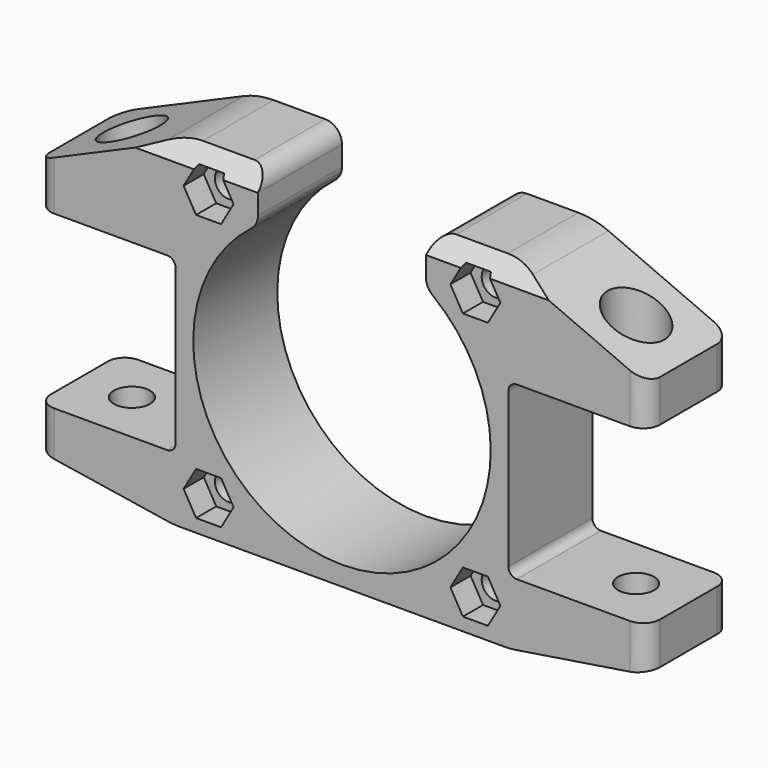
from build123d import *

# Parameters (mm, degrees)
PAD_DEPTH         = 25
SKETCH001_R       = 4.3
POCKET_DEPTH      = 100
POCKET_DEPTH_BACK = -100
SKETCH002_R       = 6.75
POCKET001_DEPTH   = 10.101
SKETCH003_R       = 6.75
POCKET002_DEPTH   = 19.101
SKETCH004_R       = 3.3
POCKET003_DEPTH   = 25.001
POCKET004_DEPTH   = 6
FILLET_R          = 4
FILLET001_R       = 2
FILLET002_R       = 18
FILLET003_R       = 4
POCKET005_DEPTH   = 145.001


with BuildPart() as part:
    # Sketch → Pad (new body)
    with BuildSketch(Plane.XZ):
        with BuildLine():
            Line((-72.5, 20.4), (-72.5, 30.4))
            Line((-72.5, 30.4), (-40, 44.5))
            Line((-40, 44.5), (-20, 44.5))
            Line((-20, 44.5), (-20, 33.708903))
            ThreePointArc((-20, 33.708903), (0, -30.9), (20, 33.708903))
            Line((20, 44.5), (20, 33.708903))
            Line((40, 44.5), (20, 44.5))
            Line((40, 44.5), (72.5, 30.4))
            Line((72.5, 30.4), (72.5, 20.4))
            Line((72.5, 20.4), (39.6, 20.4))
            Line((39.6, 20.4), (39.6, -20.4))
            Line((39.6, -20.4), (72.5, -20.4))
            Line((72.5, -20.4), (72.5, -30.4))
            Line((72.5, -30.4), (40, -35.5))
            Line((40, -35.5), (-40, -35.5))
            Line((-40, -35.5), (-72.5, -30.4))
            Line((-72.5, -30.4), (-72.5, -20.4))
            Line((-72.5, -20.4), (-39.6, -20.4))
            Line((-39.6, -20.4), (-39.6, 20.4))
            Line((-39.6, 20.4), (-72.5, 20.4))
        make_face()
    extrude(amount=PAD_DEPTH)

    # Sketch001 (on Face11 of Pad) → Pocket (cut, two sides)
    with BuildSketch(Plane(origin=(0, 0, -20.4), x_dir=(-1, 0, 0), z_dir=(0, 0, 1))) as pocket_sk:
        with Locations((-60, 12.5)):
            Circle(SKETCH001_R)
        with Locations((60, 12.5)):
            Circle(SKETCH001_R)
    extrude(amount=-POCKET_DEPTH, mode=Mode.SUBTRACT)
    extrude(pocket_sk.sketch, amount=-POCKET_DEPTH_BACK, mode=Mode.SUBTRACT)

    # Sketch002 (on Face16 of Pocket) → Pocket001 (cut, through all)
    with BuildSketch(Plane(origin=(0, 0, -25.4), x_dir=(-1, 0, 0), z_dir=(0, 0, 1))):
        with Locations((-60, 12.5)):
            Circle(SKETCH002_R)
        with Locations((60, 12.5)):
            Circle(SKETCH002_R)
    extrude(amount=-POCKET001_DEPTH, mode=Mode.SUBTRACT)

    # Sketch003 (on Face16 of Pocket001) → Pocket002 (cut, through all)
    with BuildSketch(Plane(origin=(0, 0, 25.4), x_dir=(-1, 0, 0), z_dir=(0, 0, 1))):
        with Locations((-60, 12.5)):
            Circle(SKETCH003_R)
        with Locations((60, 12.5)):
            Circle(SKETCH003_R)
    extrude(amount=POCKET002_DEPTH, mode=Mode.SUBTRACT)

    # Sketch004 (on Face4 of Pocket002) → Pocket003 (cut, through all)
    with BuildSketch(Plane.XZ.offset(25)):
        with Locations((-31.75, 36.25)):
            Circle(SKETCH004_R)
        with Locations((31.75, 36.25)):
            Circle(SKETCH004_R)
        with Locations((31.75, -27.25)):
            Circle(SKETCH004_R)
        with Locations((-31.75, -27.25)):
            Circle(SKETCH004_R)
    extrude(amount=-POCKET003_DEPTH, mode=Mode.SUBTRACT)

    # Sketch005 (on Face4 of Pocket003) → Pocket004 (cut)
    with BuildSketch(Plane.XZ.offset(25)):
        Polygon((-25.803292, 36.25), (-28.776646, 41.4), (-34.723354, 41.4), (-37.696708, 36.25), (-34.723354, 31.1), (-28.776646, 31.1), align=None)
        Polygon((34.723354, 31.1), (37.696708, 36.25), (34.723354, 41.4), (28.776646, 41.4), (25.803292, 36.25), (28.776646, 31.1), align=None)
        Polygon((28.776646, -32.4), (34.723354, -32.4), (37.696708, -27.25), (34.723354, -22.1), (28.776646, -22.1), (25.803292, -27.25), align=None)
        Polygon((-28.776646, -32.4), (-25.803292, -27.25), (-28.776646, -22.1), (-34.723354, -22.1), (-37.696708, -27.25), (-34.723354, -32.4), align=None)
    extrude(amount=-POCKET004_DEPTH, mode=Mode.SUBTRACT)

    # Fillet
    fillet_edges = [part.edges().sort_by_distance(p)[0] for p in [
        (72.5, -25, 25.4),
        (72.5, 0, 25.4),
        (72.5, -25, -25.4),
        (72.5, 0, -25.4),
        (-72.5, -25, 25.4),
        (-72.5, -25, -25.4),
        (-72.5, 0, 25.4),
        (-72.5, 0, -25.4),
    ]]
    fillet(fillet_edges, radius=FILLET_R)

    # Fillet001
    fillet001_edges = [part.edges().sort_by_distance(p)[0] for p in [
        (-39.6, -12.5, -20.4),
        (-39.6, -12.5, 20.4),
        (39.6, -12.5, -20.4),
        (39.6, -12.5, 20.4),
    ]]
    fillet(fillet001_edges, radius=FILLET001_R)

    # Fillet002
    fillet002_edges = [part.edges().sort_by_distance(p)[0] for p in [
        (40, -12.5, 44.5),
        (-40, -12.5, 44.5),
        (40, -12.5, -35.5),
        (-40, -12.5, -35.5),
    ]]
    fillet(fillet002_edges, radius=FILLET002_R)

    # Fillet003
    fillet003_edges = [part.edges().sort_by_distance(p)[0] for p in [
        (-20, -12.5, 44.5),
        (-20, -12.5, 33.708903),
        (20, -12.5, 44.5),
        (20, -12.5, 33.708903),
    ]]
    fillet(fillet003_edges, radius=FILLET003_R)

    # Sketch006 (on Face39 of Fillet003) → Pocket005 (cut, through all)
    with BuildSketch(Plane(origin=(72.5, 0, 0), x_dir=(0, 0, 1), z_dir=(1, 0, 0))):
        Polygon((40.5, 25), (44.5, 21), (44.5, 25), align=None)
    extrude(amount=-POCKET005_DEPTH, mode=Mode.SUBTRACT)


solid = part.part
